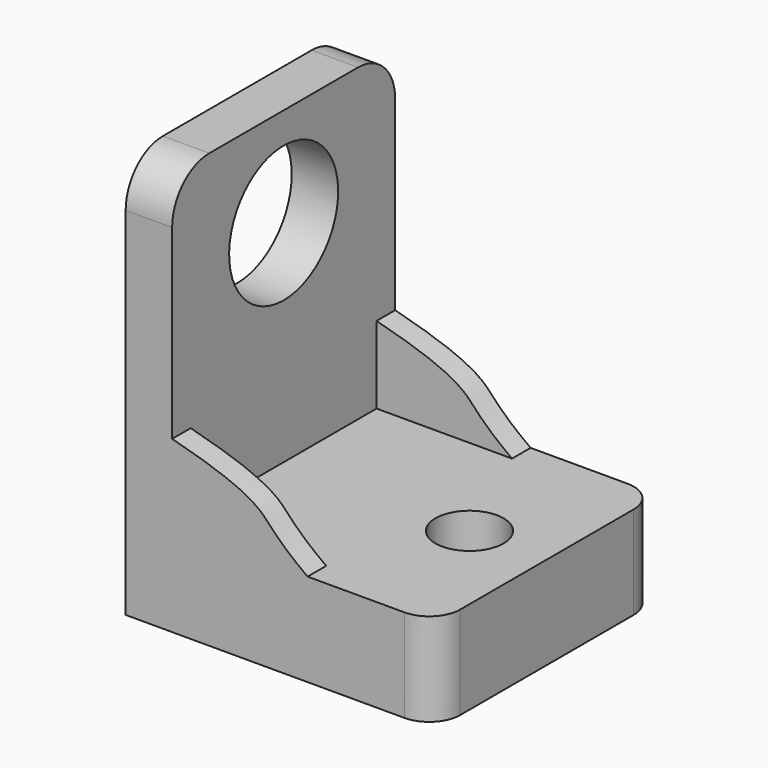
from build123d import *

# Parameters (mm, degrees)
PAD_DEPTH         = 1.5
CYLINDER001_R     = 2.2
CYLINDER001_DEPTH = 10
CYLINDER_R        = 4.4
CYLINDER_DEPTH    = 10
BOX001_W          = 3
BOX001_H          = 18
BOX001_DEPTH      = 20
FILLET001_R       = 3
BOX_W             = 20
BOX_H             = 18
BOX_DEPTH         = 6
FILLET_R          = 2


with BuildPart() as side_wall_body:
    # Sketch → Pad (new body)
    with BuildSketch(Plane.XZ):
        with BuildLine():
            Line((0, 11.694638), (0, 0))
            Line((0, 0), (14.6909, 0))
            add(Edge.make_bspline(
                [(0, 11.694638), (7.772997, 9.987508), (9.324936, 7.918261), (11.342452, 6.262862), (12.842653, 5.228237), (14.084202, 4.193611), (15.118829, 2.176094), (14.6909, 0)],
                knots=[0, 0, 0, 0, 0.2, 0.4, 0.6, 0.8, 1, 1, 1, 1], degree=3))
        make_face()
    extrude(amount=PAD_DEPTH)


with BuildPart() as side_wall_fusion:
    # Part__Mirroring: instance of side wall body
    add(side_wall_body.part.mirror(Plane(origin=(0, 7.5, 0), x_dir=(1, 0, 0), z_dir=(0, 1, 0))))

    # Fusion002: union side wall body
    add(side_wall_body.part)


with BuildPart() as side_wall_fusion_1:
    # Fusion002 placement: moved
    add(side_wall_fusion.part.moved(Location((0, 1.5, 0))))


with BuildPart() as bolt_hole:
    # Cylinder001 → Cylinder001 (new body)
    with BuildSketch(Plane(origin=(15, 9, -4), x_dir=(1, 0, 0), z_dir=(0, 0, 1))):
        Circle(CYLINDER001_R)
    extrude(amount=CYLINDER001_DEPTH)


with BuildPart() as hole_fusion:
    # Cylinder → Cylinder (new body)
    with BuildSketch(Plane(origin=(-3, 9, 19.6), x_dir=(0, 0, -1), z_dir=(1, 0, 0))):
        Circle(CYLINDER_R)
    extrude(amount=CYLINDER_DEPTH)

    # Fusion001: union bolt hole
    add(bolt_hole.part)


with BuildPart() as socket_fillet:
    # Box001 → Box001 (new body)
    with BuildSketch(Plane.XY.offset(6)):
        with Locations((1.5, 9)):
            Rectangle(BOX001_W, BOX001_H)
    extrude(amount=BOX001_DEPTH)

    # Fillet001
    fillet001_edges = [socket_fillet.edges().sort_by_distance(p)[0] for p in [
        (1.5, 0, 26),
        (1.5, 18, 26),
    ]]
    fillet(fillet001_edges, radius=FILLET001_R)


with BuildPart() as power_12v_socket_fusion:
    # Box → Box (new body)
    with BuildSketch(Plane.XY):
        with Locations((10, 9)):
            Rectangle(BOX_W, BOX_H)
    extrude(amount=BOX_DEPTH)

    # Fillet
    fillet_edges = [power_12v_socket_fusion.edges().sort_by_distance(p)[0] for p in [
        (20, 0, 3),
        (20, 18, 3),
    ]]
    fillet(fillet_edges, radius=FILLET_R)

    # Fusion: union socket fillet
    add(socket_fillet.part)

    # Cut: cut hole fusion
    add(hole_fusion.part, mode=Mode.SUBTRACT)

    # Fusion003: union side wall fusion
    add(side_wall_fusion_1.part)


solid = power_12v_socket_fusion.part
